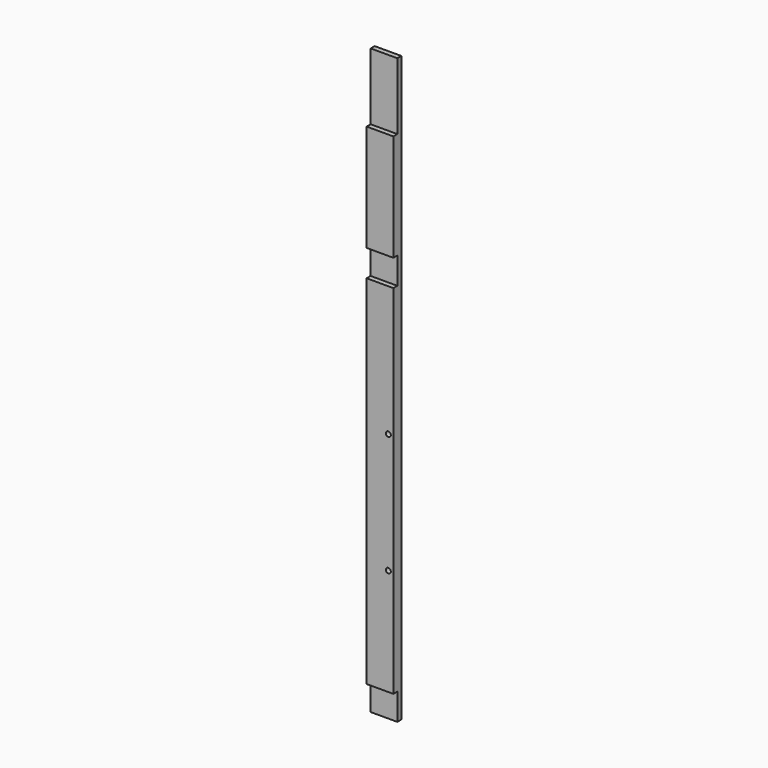
from build123d import *

# Parameters (mm, degrees)
F0_W     = 50.8
F0_H     = 19.05
F1_DEPTH = 1111.25
F2_W     = 122.435573
F2_H     = 50.8
F2_W_2   = 93.867282
F2_W_3   = 343.160421
F2_H_2   = 127
F3_DEPTH = 25.4
F4_R     = 4.7625
F5_DEPTH = 25.4


with BuildPart() as f1:
    # F0 (on Top) → F1 (new body)
    with BuildSketch(Plane.XY):
        Rectangle(F0_W, F0_H)
    extrude(amount=F1_DEPTH)

    # F2 (on Front) → F3 (cut)
    with BuildSketch(Plane.XZ):
        with Locations((22.446524, 25.4)):
            Rectangle(F2_W, F2_H)
        with Locations((2.720783, 755.65)):
            Rectangle(F2_W_2, F2_H)
        with Locations((-38.781822, 1047.75)):
            Rectangle(F2_W_3, F2_H_2)
    extrude(amount=F3_DEPTH, mode=Mode.SUBTRACT)

    # F4 (on Front) → F5 (cut)
    with BuildSketch(Plane.XZ):
        with Locations((15.875, 254)):
            Circle(F4_R)
        with Locations((15.875, 482.6)):
            Circle(F4_R)
    extrude(amount=F5_DEPTH, mode=Mode.SUBTRACT)


solid = f1.part
